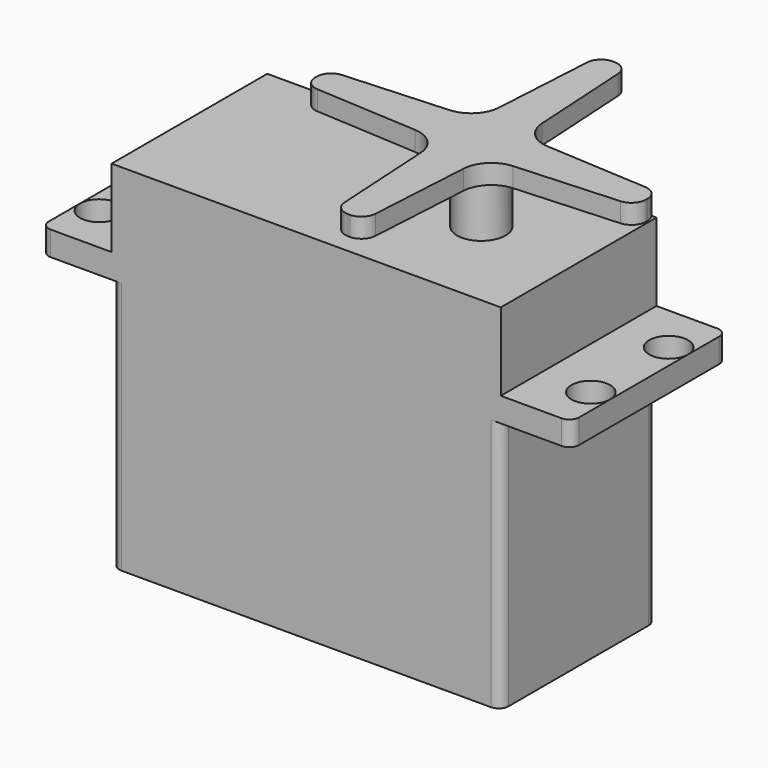
from build123d import *

# Parameters (mm, degrees)
F1_DEPTH  = 26
F3_DEPTH  = 2.5
F4_D      = 3.99
F4_DEPTH  = 5
F5_W      = 40
F5_H      = 20
F6_DEPTH  = 8
F7_R      = 2.5
F8_DEPTH  = 6
F10_DEPTH = 2


with BuildPart() as f1:
    # F0 (on Top) → F1 (new body)
    with BuildSketch(Plane.XY):
        with BuildLine():
            Line((-19, -10), (19, -10))
            ThreePointArc((19, -10), (19.707107, -9.707107), (20, -9))
            Line((20, -9), (20, 9))
            ThreePointArc((20, 9), (19.707107, 9.707107), (19, 10))
            Line((19, 10), (-19, 10))
            ThreePointArc((-19, 10), (-19.707107, 9.707107), (-20, 9))
            Line((-20, 9), (-20, -9))
            ThreePointArc((-20, -9), (-19.707107, -9.707107), (-19, -10))
        make_face()
    extrude(amount=F1_DEPTH)

    # F2 (on face) → F3 (join)
    with BuildSketch(Plane.XY.offset(26)):
        with BuildLine():
            Line((-26.25, -10), (26.25, -10))
            ThreePointArc((26.25, -10), (26.957107, -9.707107), (27.25, -9))
            Line((27.25, -9), (27.25, 9))
            ThreePointArc((27.25, 9), (26.957107, 9.707107), (26.25, 10))
            Line((26.25, 10), (-26.25, 10))
            ThreePointArc((-26.25, 10), (-26.957107, 9.707107), (-27.25, 9))
            Line((-27.25, 9), (-27.25, -9))
            ThreePointArc((-27.25, -9), (-26.957107, -9.707107), (-26.25, -10))
        make_face()
    extrude(amount=F3_DEPTH)

    # F4
    with Locations(Plane(origin=(0, 0, 26), x_dir=(1, 0, 0), z_dir=(0, 0, -1))):
        with Locations((-25.25, 5), (-25.25, -5), (25.25, 5), (25.25, -5)):
            Hole(F4_D / 2, depth=F4_DEPTH)

    # F5 (on face) → F6 (join)
    with BuildSketch(Plane.XY.offset(28.5)):
        Rectangle(F5_W, F5_H)
    extrude(amount=F6_DEPTH)


with BuildPart() as f8:
    # F7 (on face) → F8 (new body)
    with BuildSketch(Plane.XY.offset(36.5)):
        with Locations((10, 0)):
            Circle(F7_R)
    extrude(amount=F8_DEPTH)

    # F9 (on face) → F10 (join)
    with BuildSketch(Plane.XY.offset(42.5)):
        with BuildLine():
            ThreePointArc((-5.588466, 1.583393), (-6.591489, 1.114912), (-7, 0.086004))
            Line((-7, 0.086004), (-7, -0.085642))
            ThreePointArc((-7, -0.085642), (-6.591358, -1.114689), (-5.588083, -1.583054))
            Line((-5.588083, -1.583054), (4.973742, -2.204338))
            ThreePointArc((4.973742, -2.204338), (6.918625, -3.07757), (7.792354, -5.02223))
            Line((7.792354, -5.02223), (8.416607, -15.588466))
            ThreePointArc((8.416607, -15.588466), (8.885088, -16.591489), (9.913996, -17))
            Line((9.913996, -17), (10.085642, -17))
            ThreePointArc((10.085642, -17), (11.114689, -16.591358), (11.583054, -15.588083))
            Line((11.583054, -15.588083), (12.204338, -5.026258))
            ThreePointArc((12.204338, -5.026258), (13.07757, -3.081375), (15.02223, -2.207646))
            Line((15.02223, -2.207646), (25.588466, -1.583393))
            ThreePointArc((25.588466, -1.583393), (26.591489, -1.114912), (27, -0.086004))
            Line((27, -0.086004), (27, 0.085642))
            ThreePointArc((27, 0.085642), (26.591358, 1.114689), (25.588083, 1.583054))
            Line((25.588083, 1.583054), (15.026258, 2.204338))
            ThreePointArc((15.026258, 2.204338), (13.081375, 3.07757), (12.207646, 5.02223))
            Line((12.207646, 5.02223), (11.583393, 15.588466))
            ThreePointArc((11.583393, 15.588466), (11.114912, 16.591489), (10.086004, 17))
            Line((10.086004, 17), (9.914358, 17))
            ThreePointArc((9.914358, 17), (8.885311, 16.591358), (8.416946, 15.588083))
            Line((8.416946, 15.588083), (7.795662, 5.026258))
            ThreePointArc((7.795662, 5.026258), (6.92243, 3.081375), (4.97777, 2.207646))
            Line((4.97777, 2.207646), (-5.588466, 1.583393))
        make_face()
    extrude(amount=F10_DEPTH)


solid = Compound([f1.part, f8.part])
